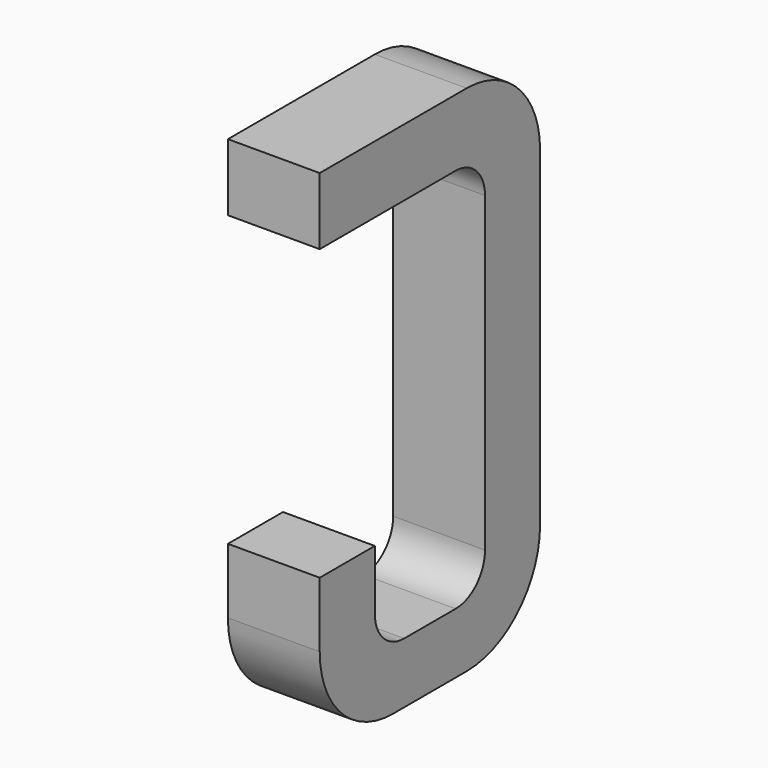
from build123d import *

# Parameters (mm, degrees)
BOX035_W     = 0.5
BOX035_H     = 1.5
BOX035_DEPTH = 2.795
FILLET070_R  = 0.5
FILLET069_R  = 0.5
FILLET076_R  = 0.5
BOX041_W     = 0.75
BOX041_H     = 2.1
BOX041_DEPTH = 1
FILLET079_R  = 0.2
FILLET081_R  = 0.2
FILLET077_R  = 0.2
FILLET078_R  = 0.2
BOX043_W     = 1
BOX043_H     = 1.575
BOX043_DEPTH = 3


with BuildPart() as part:
    # Box035 → Box035 (join)
    with BuildSketch(Plane(origin=(-0.25, 11.125, 0), x_dir=(1, 0, 0), z_dir=(0, 0, 1))):
        with Locations((0.25, 0.75)):
            Rectangle(BOX035_W, BOX035_H)
    extrude(amount=BOX035_DEPTH)

    # Fillet070
    fillet070_edges = [part.edges().sort_by_distance(p)[0] for p in [
        (0, 12.625, 0),
    ]]
    fillet(fillet070_edges, radius=FILLET070_R)

    # Fillet069
    fillet069_edges = [part.edges().sort_by_distance(p)[0] for p in [
        (0, 12.625, 2.795),
    ]]
    fillet(fillet069_edges, radius=FILLET069_R)

    # Fillet076
    fillet076_edges = [part.edges().sort_by_distance(p)[0] for p in [
        (0, 11.125, 0),
    ]]
    fillet(fillet076_edges, radius=FILLET076_R)

    # Box041 → Box041 (cut)
    with BuildSketch(Plane(origin=(-0.5, 11.5, 0.33), x_dir=(0, 1, 0), z_dir=(1, 0, 0))):
        with Locations((0.375, 1.05)):
            Rectangle(BOX041_W, BOX041_H)
    extrude(amount=BOX041_DEPTH, mode=Mode.SUBTRACT)

    # Fillet079
    fillet079_edges = [part.edges().sort_by_distance(p)[0] for p in [
        (0, 11.5, 0.33),
    ]]
    fillet(fillet079_edges, radius=FILLET079_R)

    # Fillet081
    fillet081_edges = [part.edges().sort_by_distance(p)[0] for p in [
        (0, 12.25, 0.33),
    ]]
    fillet(fillet081_edges, radius=FILLET081_R)

    # Fillet077
    fillet077_edges = [part.edges().sort_by_distance(p)[0] for p in [
        (0, 11.5, 2.43),
    ]]
    fillet(fillet077_edges, radius=FILLET077_R)

    # Fillet078
    fillet078_edges = [part.edges().sort_by_distance(p)[0] for p in [
        (0, 12.25, 2.43),
    ]]
    fillet(fillet078_edges, radius=FILLET078_R)

    # Box043 → Box043 (cut)
    with BuildSketch(Plane(origin=(-1, 11, 0.855), x_dir=(0, 1, 0), z_dir=(1, 0, 0))):
        with Locations((0.5, 0.7875)):
            Rectangle(BOX043_W, BOX043_H)
    extrude(amount=BOX043_DEPTH, mode=Mode.SUBTRACT)


with BuildPart() as part_1:
    # Body011 placement: moved
    add(part.part.moved(Location((-6.35, 0, 0))))


solid = part_1.part
